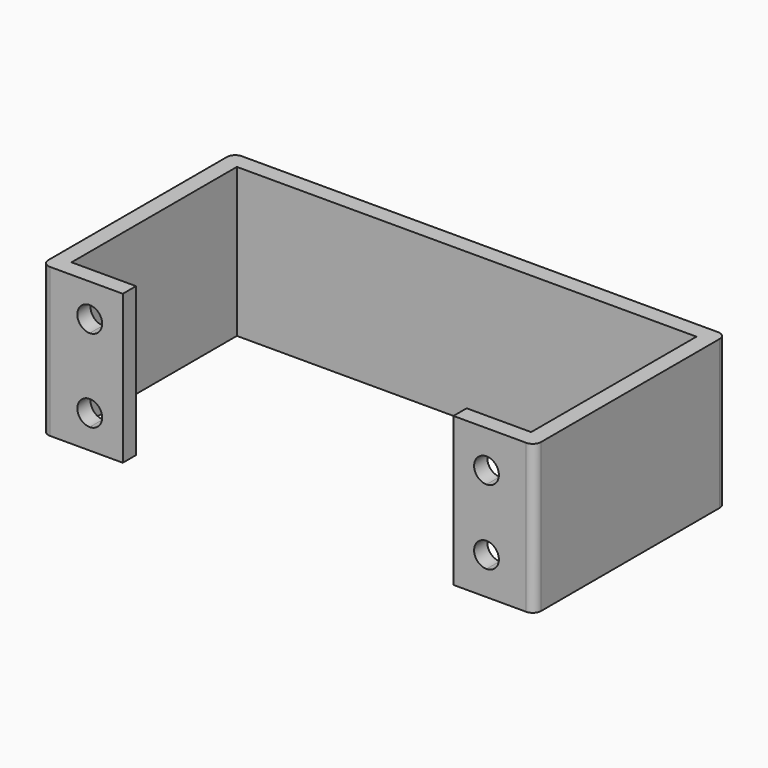
from build123d import *

# Parameters (mm, degrees)
F1_W     = 5.8
F1_H     = 2
F1_W_2   = 2
F2_DEPTH = 9
F3_DEPTH = 25
F4_R     = 1
F6_DEPTH = 7


with BuildPart() as f2:
    # F1 (on Top) → F2 (new body, symmetric)
    with BuildSketch(Plane.XY):
        with Locations((22.9, 1)):
            Rectangle(F1_W, F1_H)
        with Locations((26.8, 1)):
            Rectangle(F1_W_2, F1_H)
        Polygon((-29.8, 0), (-27.8, 0), (-27.8, 2), (-27.8, 27), (-27.8, 29), (-29.8, 29), align=None)
        Polygon((27.8, 29), (27.8, 27), (27.8, 2), (27.8, 0), (29.8, 0), (29.8, 29), align=None)
        Polygon((-27.8, 27), (-25.8, 27), (25.8, 27), (27.8, 27), (27.8, 29), (-27.8, 29), align=None)
        with Locations((-26.8, 1)):
            Rectangle(F1_W_2, F1_H)
        with Locations((-22.9, 1)):
            Rectangle(F1_W, F1_H)
    extrude(amount=F2_DEPTH, both=True)

    # F0 (on Front) → F3 (cut)
    with BuildSketch(Plane.XZ):
        with BuildLine():
            ThreePointArc((-24, 6.5), (-25.5, 5), (-24, 3.5))
            Line((-24, 3.5), (-24, 6.5))
        make_face()
        with BuildLine():
            Line((-24, 6.5), (-24, 3.5))
            ThreePointArc((-24, 3.5), (-22.9393398282, 3.9393398282), (-22.5, 5))
            ThreePointArc((-22.5, 5), (-22.9393398282, 6.0606601718), (-24, 6.5))
        make_face()
        with BuildLine():
            Line((-24, -6.5), (-24, -3.5))
            ThreePointArc((-24, -3.5), (-25.5, -5), (-24, -6.5))
        make_face()
        with BuildLine():
            ThreePointArc((-22.5, -5), (-22.9393398282, -3.9393398282), (-24, -3.5))
            Line((-24, -3.5), (-24, -6.5))
            ThreePointArc((-24, -6.5), (-22.9393398282, -6.0606601718), (-22.5, -5))
        make_face()
        with BuildLine():
            Line((24, 3), (24, 6))
            ThreePointArc((24, 6), (22.5, 4.5), (24, 3))
        make_face()
        with BuildLine():
            ThreePointArc((25.5, 4.5), (25.0606601718, 5.5606601718), (24, 6))
            Line((24, 6), (24, 3))
            ThreePointArc((24, 3), (25.0606601718, 3.4393398282), (25.5, 4.5))
        make_face()
        with BuildLine():
            Line((24, -3), (24, -6))
            ThreePointArc((24, -6), (25.0606601718, -5.5606601718), (25.5, -4.5))
            ThreePointArc((25.5, -4.5), (25.0606601718, -3.4393398282), (24, -3))
        make_face()
        with BuildLine():
            ThreePointArc((24, -3), (22.5, -4.5), (24, -6))
            Line((24, -6), (24, -3))
        make_face()
    extrude(amount=-F3_DEPTH, mode=Mode.SUBTRACT)

    # F4
    f4_edges = [f2.edges().sort_by_distance(p)[0] for p in [
        (-29.8, 0, 0),
        (29.8, 0, 0),
        (29.8, 29, 0),
        (-29.8, 29, 0),
    ]]
    fillet(f4_edges, radius=F4_R)

    # F5 (on face) → F6 (join)
    with BuildSketch(Plane.XZ.offset(-27)):
        with BuildLine():
            ThreePointArc((-6.4444444444, 0), (-9.4444444444, 3), (-12.4444444444, 0))
            Line((-12.4444444444, 0), (-6.4444444444, 0))
        make_face()
        with BuildLine():
            Line((-6.4444444444, 0), (-12.4444444444, 0))
            ThreePointArc((-12.4444444444, 0), (-9.4444444444, -3), (-6.4444444444, 0))
        make_face()
    extrude(amount=-F6_DEPTH)


solid = f2.part
